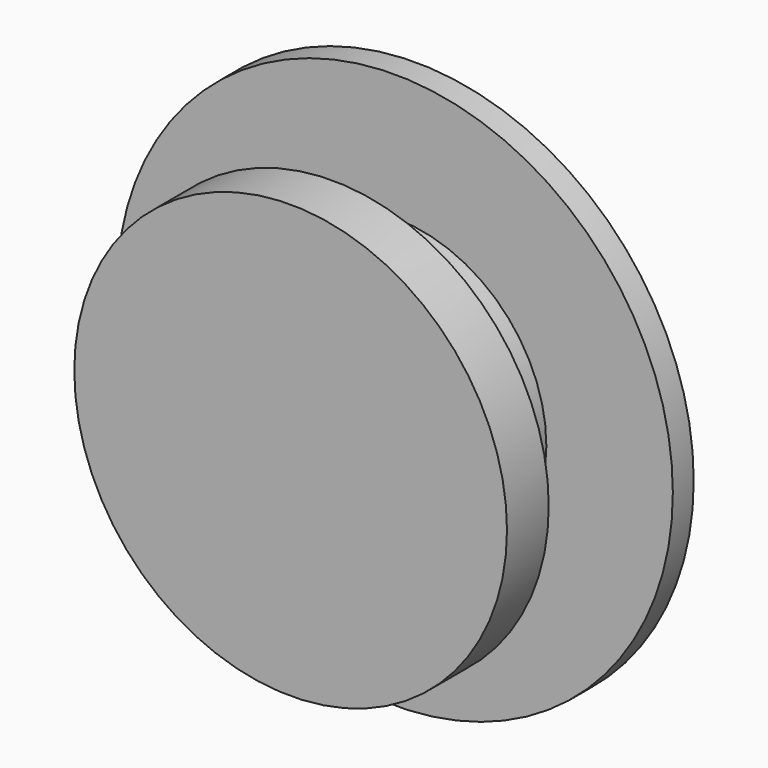
from build123d import *

# Parameters (mm, degrees)
F0_R     = 53.254214
F1_DEPTH = 5
F2_R     = 29.011498
F3_DEPTH = 20
F4_R     = 41.466873
F5_DEPTH = 10


with BuildPart() as f1:
    # F0 (on Front) → F1 (new body)
    with BuildSketch(Plane.XZ):
        Circle(F0_R)
    extrude(amount=F1_DEPTH)

    # F2 (on Front) → F3 (join)
    with BuildSketch(Plane.XZ):
        Circle(F2_R)
    extrude(amount=F3_DEPTH)

    # F4 (on face) → F5 (join)
    with BuildSketch(Plane.XZ.offset(20)):
        Circle(F4_R)
    extrude(amount=F5_DEPTH)


solid = f1.part
